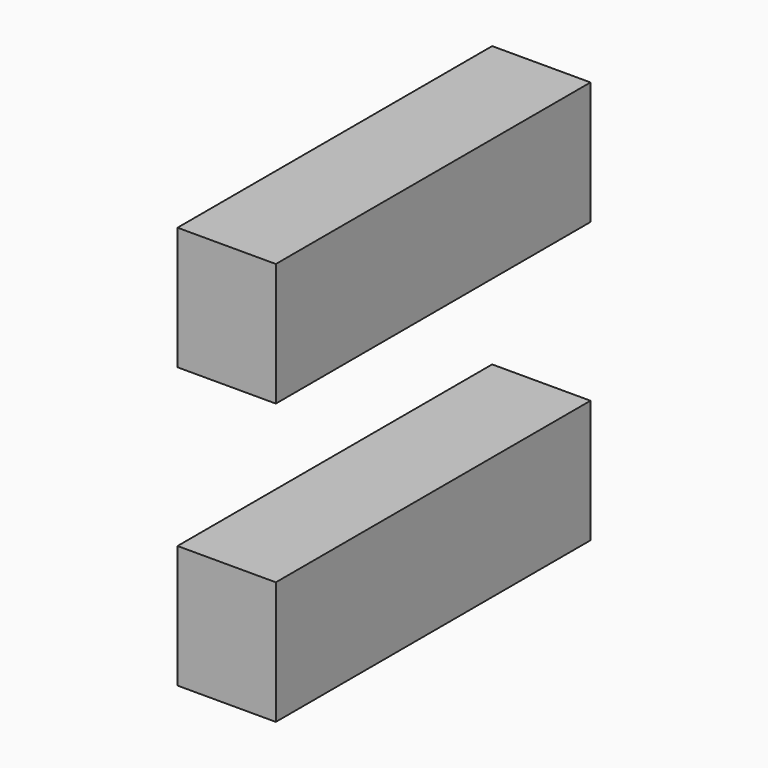
from build123d import *

# Parameters (mm, degrees)
F1_DEPTH = 2.5


with BuildPart() as f1:
    # F0 (on Right) → F1 (new body)
    with BuildSketch(Plane.YZ):
        Polygon((0, -0.125), (0, 0), (0, 3), (-8, 3), (-10, 3), (-10, 0), (-10, -0.125), align=None)
        Polygon((0, 7), (0, 10), (0, 10.125), (-10, 10.125), (-10, 10), (-10, 7), (-8, 7), align=None)
    extrude(amount=F1_DEPTH)


solid = f1.part
